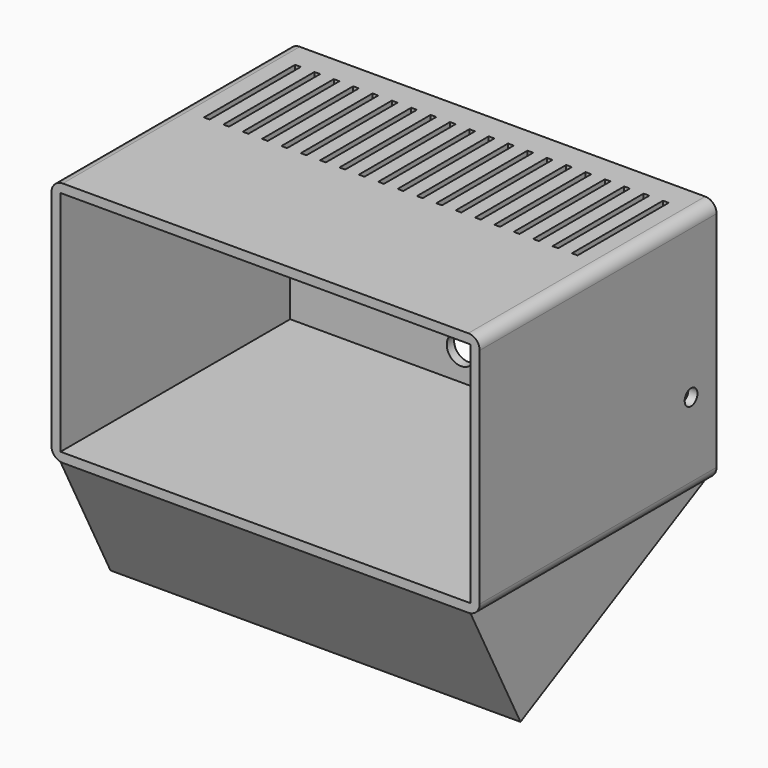
from build123d import *

# Parameters (mm, degrees)
F0_W      = 75.2
F0_H      = 43.2
F0_W_2    = 72
F0_H_2    = 40
F1_DEPTH  = 52
F2_R      = 2
F3_DEPTH  = 1.6
F5_DEPTH  = 36
F6_D      = 9
F8_D      = 2.8
F8_DEPTH  = 1.601
F9_D      = 5
F10_W     = 1
F10_H     = 20
F11_DEPTH = 25


with BuildPart() as f1:
    # F0 (on Front) → F1 (new body)
    with BuildSketch(Plane.XZ):
        Rectangle(F0_W, F0_H)
        Rectangle(F0_W_2, F0_H_2, mode=Mode.SUBTRACT)
    extrude(amount=F1_DEPTH)

    # F2
    f2_edges = [f1.edges().sort_by_distance(p)[0] for p in [
        (37.6, -26, 21.6),
        (-37.6, -26, 21.6),
        (-37.6, -26, -21.6),
        (37.6, -26, -21.6),
    ]]
    fillet(f2_edges, radius=F2_R)

    # F0 (on Front) → F3 (join)
    with BuildSketch(Plane.XZ):
        Rectangle(F0_W_2, F0_H_2)
    extrude(amount=F3_DEPTH)

    # F4 (on Right) → F5 (join, symmetric)
    with BuildSketch(Plane.YZ):
        Polygon((0, -21.6), (-52, -21.6), (-41.0421315348, -42.8069394041), align=None)
    extrude(amount=F5_DEPTH, both=True)

    # F6 (through all)
    with Locations(Plane(origin=(0, 0, 0), x_dir=(1, 0, 0), z_dir=(0, 1, 0))):
        with Locations((30.4, 6)):
            Hole(F6_D / 2)

    # F8 (through all, one way)
    with BuildSketch(Plane(origin=(36, 0, 0), x_dir=(0, -1, 0), z_dir=(-1, 0, 0))):
        with Locations((5.6, -6.5)):
            Circle(F8_D / 2)
    extrude(amount=-F8_DEPTH, mode=Mode.SUBTRACT)

    # F9 (through all)
    with Locations(Plane(origin=(0, 0, 0), x_dir=(1, 0, 0), z_dir=(0, 1, 0))):
        with Locations((-6, 15)):
            Hole(F9_D / 2)

    # F10 (on face) → F11 (cut)
    with BuildSketch(Plane.XY.offset(21.6)):
        with Locations((-32.2436588705, -14.5910207555)):
            Rectangle(F10_W, F10_H)
        with Locations((-28.8436588705, -14.5910207555)):
            Rectangle(F10_W, F10_H)
        with Locations((-25.4436588705, -14.5910207555)):
            Rectangle(F10_W, F10_H)
        with Locations((-22.0436588705, -14.5910207555)):
            Rectangle(F10_W, F10_H)
        with Locations((-18.6436588705, -14.5910207555)):
            Rectangle(F10_W, F10_H)
        with Locations((-15.2436588705, -14.5910207555)):
            Rectangle(F10_W, F10_H)
        with Locations((-11.8436588705, -14.5910207555)):
            Rectangle(F10_W, F10_H)
        with Locations((-8.4436588705, -14.5910207555)):
            Rectangle(F10_W, F10_H)
        with Locations((-5.0436588705, -14.5910207555)):
            Rectangle(F10_W, F10_H)
        with Locations((1.7563411295, -14.5910207555)):
            Rectangle(F10_W, F10_H)
        with Locations((5.1563411295, -14.5910207555)):
            Rectangle(F10_W, F10_H)
        with Locations((-1.6436588705, -14.5910207555)):
            Rectangle(F10_W, F10_H)
        with Locations((8.5563411295, -14.5910207555)):
            Rectangle(F10_W, F10_H)
        with Locations((11.9563411295, -14.5910207555)):
            Rectangle(F10_W, F10_H)
        with Locations((15.3563411295, -14.5910207555)):
            Rectangle(F10_W, F10_H)
        with Locations((18.7563411295, -14.5910207555)):
            Rectangle(F10_W, F10_H)
        with Locations((22.1563411295, -14.5910207555)):
            Rectangle(F10_W, F10_H)
        with Locations((25.5563411295, -14.5910207555)):
            Rectangle(F10_W, F10_H)
        with Locations((28.9563411295, -14.5910207555)):
            Rectangle(F10_W, F10_H)
        with Locations((32.3563411295, -14.5910207555)):
            Rectangle(F10_W, F10_H)
    extrude(amount=-F11_DEPTH, mode=Mode.SUBTRACT)


solid = f1.part
